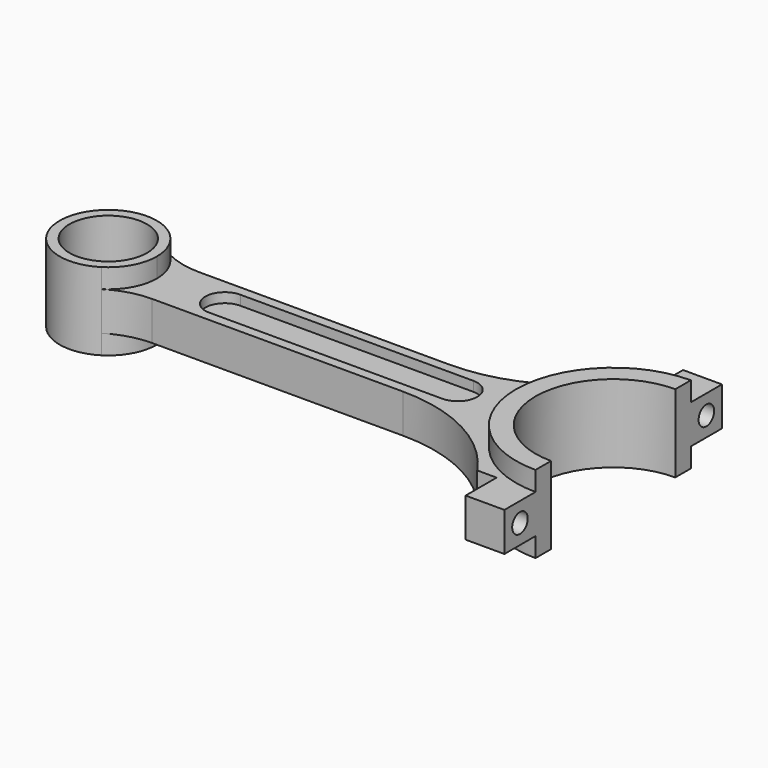
from build123d import *

# Parameters (mm, degrees)
F1_DEPTH = 6.35
F0_R     = 12.7
F2_DEPTH = 12.7
F3_DEPTH = 3.175
F4_R     = 3.175
F5_DEPTH = 180.976


with BuildPart() as f1:
    # F0 (on Top) → F1 (new body, symmetric)
    with BuildSketch(Plane.XY):
        with BuildLine():
            ThreePointArc((0, -31.75), (-31.75, 0), (0, 31.75))
            Line((0, 31.75), (0, 44.45))
            Line((0, 44.45), (-12.7, 44.45))
            Line((-12.7, 44.45), (-12.7, 31.75))
            Line((-12.7, 31.75), (-19.05, 31.75))
            ThreePointArc((-19.05, 31.75), (-37.291778, 15.423719), (-61.051302, 9.525))
            Line((-61.051302, 9.525), (-143.102955, 9.525))
            ThreePointArc((-143.102955, 9.525), (-150.147647, 10.521469), (-156.639598, 13.432692))
            ThreePointArc((-156.639598, 13.432692), (-151.201718, 7.671595), (-149.225, 0))
            ThreePointArc((-149.225, 0), (-151.201718, -7.671595), (-156.639598, -13.432692))
            ThreePointArc((-156.639598, -13.432692), (-150.147647, -10.521469), (-143.102955, -9.525))
            Line((-143.102955, -9.525), (-61.051302, -9.525))
            ThreePointArc((-61.051302, -9.525), (-37.291778, -15.423719), (-19.05, -31.75))
            Line((-19.05, -31.75), (-12.7, -31.75))
            Line((-12.7, -31.75), (-12.7, -44.45))
            Line((-12.7, -44.45), (0, -44.45))
            Line((0, -44.45), (0, -31.75))
        make_face()
        with BuildLine():
            ThreePointArc((-127, -6.35), (-133.35, 0), (-127, 6.35))
            Line((-127, 6.35), (-50.8, 6.35))
            ThreePointArc((-50.8, 6.35), (-44.45, 0), (-50.8, -6.35))
            Line((-50.8, -6.35), (-127, -6.35))
        make_face(mode=Mode.SUBTRACT)
    extrude(amount=F1_DEPTH, both=True)

    # F0 (on Top) → F2 (join, symmetric)
    with BuildSketch(Plane.XY):
        with BuildLine():
            ThreePointArc((-149.225, 0), (-151.201718, 7.671595), (-156.639598, 13.432692))
            ThreePointArc((-156.639598, 13.432692), (-180.975, 0), (-156.639598, -13.432692))
            ThreePointArc((-156.639598, -13.432692), (-151.201718, -7.671595), (-149.225, 0))
        make_face()
        with Locations((-165.1, 0)):
            Circle(F0_R, mode=Mode.SUBTRACT)
        with BuildLine():
            Line((0, 25.4), (0, 31.75))
            ThreePointArc((0, 31.75), (-31.75, 0), (0, -31.75))
            Line((0, -31.75), (0, -25.4))
            ThreePointArc((0, -25.4), (-25.4, 0), (0, 25.4))
        make_face()
    extrude(amount=F2_DEPTH, both=True)

    # F0 (on Top) → F3 (join, symmetric)
    with BuildSketch(Plane.XY):
        with BuildLine():
            Line((-50.8, 6.35), (-127, 6.35))
            ThreePointArc((-127, 6.35), (-133.35, 0), (-127, -6.35))
            Line((-127, -6.35), (-50.8, -6.35))
            ThreePointArc((-50.8, -6.35), (-44.45, 0), (-50.8, 6.35))
        make_face()
    extrude(amount=F3_DEPTH, both=True)

    # F4 (on face) → F5 (cut, through all)
    with BuildSketch(Plane.YZ):
        with Locations((-38.1, 0)):
            Circle(F4_R)
        with Locations((38.1, 0)):
            Circle(F4_R)
    extrude(amount=-F5_DEPTH, mode=Mode.SUBTRACT)


solid = f1.part
